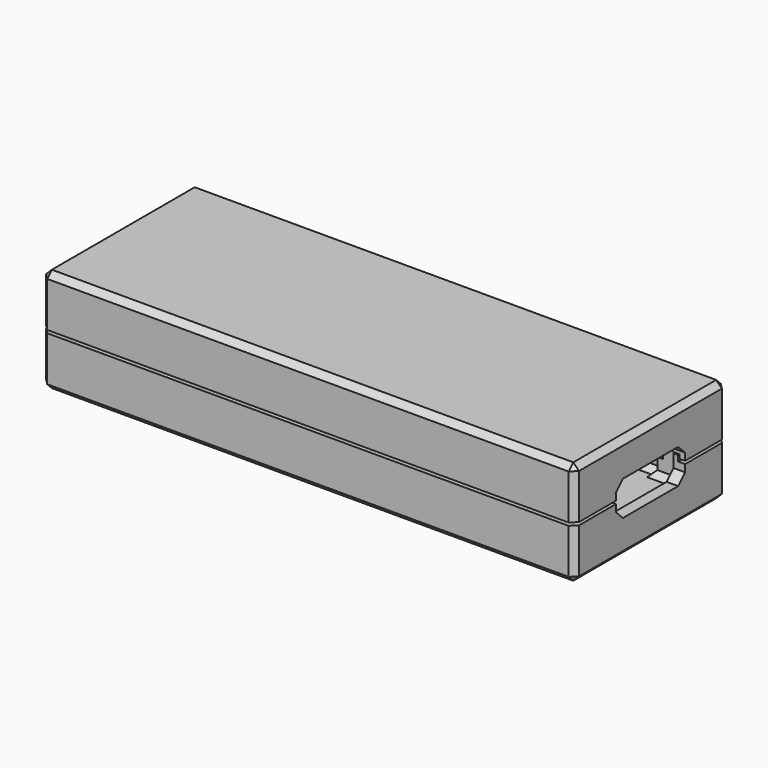
from build123d import *

# Parameters (mm, degrees)
SKETCH_W        = 92.52
SKETCH_H        = 33
PAD_DEPTH       = 9.8
POCKET_DEPTH    = 4.8
SKETCH003_W     = 93.12
SKETCH003_H     = 33.6
SKETCH003_W_2   = 90.12
SKETCH003_H_2   = 30.6
POCKET001_DEPTH = 1
POCKET002_DEPTH = 3
CHAMFER002_SIZE = 1
SKETCH012_W     = 10
SKETCH012_H     = 1.6
PAD002_DEPTH    = 0.5
CHAMFER003_SIZE = 0.499
SKETCH013_W     = 10
SKETCH013_H     = 1.6
PAD003_DEPTH    = 0.5
CHAMFER004_SIZE = 0.499
CHAMFER007_SIZE = 1
POCKET009_DEPTH = 92.521
SKETCH005_W     = 92.52
SKETCH005_H     = 33
PAD001_DEPTH    = 12
SKETCH006_W     = 94.12
SKETCH006_H     = 34.6
SKETCH006_W_2   = 88.12
SKETCH006_H_2   = 28.6
POCKET003_DEPTH = 3.2
SKETCH007_W     = 90.52
SKETCH007_H     = 31
SKETCH007_W_2   = 88.12
SKETCH007_H_2   = 28.6
POCKET004_DEPTH = 3.9
POCKET005_DEPTH = 10
SKETCH009_W     = 6
SKETCH009_H     = 2
POCKET006_DEPTH = 3.9
POCKET007_DEPTH = 10
POCKET008_DEPTH = 10
CHAMFER_SIZE    = 1
CHAMFER001_SIZE = 1
CHAMFER005_SIZE = 1
CHAMFER006_SIZE = 1
POCKET010_DEPTH = 92.521


with BuildPart() as body_bottom:
    # Sketch → Pad (new body)
    with BuildSketch(Plane.XY):
        with Locations((46.26, 16.5)):
            Rectangle(SKETCH_W, SKETCH_H)
    extrude(amount=PAD_DEPTH)

    # Sketch002 (on Face6 of Pad) → Pocket (cut)
    with BuildSketch(Plane.XY.offset(9.8)):
        Polygon((2, 29), (2, 4), (7.8, 4), (7.8, 2), (84.72, 2), (84.72, 4), (90.52, 4), (90.52, 29), (84.72, 29), (84.72, 31), (7.8, 31), (7.8, 29), align=None)
    extrude(amount=-POCKET_DEPTH, mode=Mode.SUBTRACT)

    # Sketch003 (on Face5 of Pocket) → Pocket001 (cut)
    with BuildSketch(Plane.XY.offset(9.8)):
        with Locations((46.26, 16.5)):
            Rectangle(SKETCH003_W, SKETCH003_H)
        with Locations((46.26, 16.5)):
            Rectangle(SKETCH003_W_2, SKETCH003_H_2, mode=Mode.SUBTRACT)
    extrude(amount=-POCKET001_DEPTH, mode=Mode.SUBTRACT)

    # Sketch004 (on Face24 of Pocket001) → Pocket002 (cut)
    with BuildSketch(Plane.XY.offset(5)):
        Polygon((2, 29), (2, 4), (8.8, 4), (8.8, 3), (83.72, 3), (83.72, 4), (90.52, 4), (90.52, 29), (83.72, 29), (83.72, 30), (8.8, 30), (8.8, 29), align=None)
    extrude(amount=-POCKET002_DEPTH, mode=Mode.SUBTRACT)

    # Chamfer002
    chamfer002_edges = [body_bottom.edges().sort_by_distance(p)[0] for p in [
        (46.26, 0, 0),
        (0, 16.5, 0),
        (0, 0, 4.4),
        (0, 33, 4.4),
        (46.26, 33, 0),
        (92.52, 33, 4.4),
        (92.52, 16.5, 0),
        (92.52, 0, 4.4),
    ]]
    chamfer(chamfer002_edges, length=CHAMFER002_SIZE)

    # Sketch012 (on Face29 of Chamfer002) → Pad002 (join)
    with BuildSketch(Plane.XZ.offset(-31)):
        with Locations((15, 7.17)):
            Rectangle(SKETCH012_W, SKETCH012_H)
        with Locations((77.52, 7.17)):
            Rectangle(SKETCH012_W, SKETCH012_H)
    extrude(amount=PAD002_DEPTH)

    # Chamfer003
    chamfer003_edges = [body_bottom.edges().sort_by_distance(p)[0] for p in [
        (15, 30.5, 6.37),
        (15, 30.5, 7.97),
        (77.52, 30.5, 6.37),
        (77.52, 30.5, 7.97),
    ]]
    chamfer(chamfer003_edges, length=CHAMFER003_SIZE)

    # Sketch013 (on Face25 of Chamfer003) → Pad003 (join)
    with BuildSketch(Plane(origin=(0, 2, 0), x_dir=(-1, 0, 0), z_dir=(0, 1, 0))):
        with Locations((-77.52, 7.17)):
            Rectangle(SKETCH013_W, SKETCH013_H)
        with Locations((-15, 7.17)):
            Rectangle(SKETCH013_W, SKETCH013_H)
    extrude(amount=PAD003_DEPTH)

    # Chamfer004
    chamfer004_edges = [body_bottom.edges().sort_by_distance(p)[0] for p in [
        (77.52, 2.5, 6.37),
        (77.52, 2.5, 7.97),
        (15, 2.5, 6.37),
        (15, 2.5, 7.97),
    ]]
    chamfer(chamfer004_edges, length=CHAMFER004_SIZE)

    # Chamfer007
    chamfer007_edges = [body_bottom.edges().sort_by_distance(p)[0] for p in [
        (2, 4, 3.5),
        (2, 4, 7.4),
        (2, 16.5, 2),
        (5.4, 4, 2),
        (8.8, 3.5, 2),
        (46.26, 3, 2),
        (5.4, 29, 2),
        (2, 29, 3.5),
        (2, 29, 7.4),
        (8.8, 29.5, 2),
        (46.26, 30, 2),
        (87.12, 29, 2),
        (90.52, 29, 3.5),
        (90.52, 29, 7.4),
        (83.72, 29.5, 2),
        (87.12, 4, 2),
        (90.52, 16.5, 2),
        (83.72, 3.5, 2),
        (90.52, 4, 3.5),
        (90.52, 4, 7.4),
    ]]
    chamfer(chamfer007_edges, length=CHAMFER007_SIZE)

    # Sketch014 (on Face79 of Chamfer007) → Pocket009 (cut, through all)
    with BuildSketch(Plane(origin=(0, 0, 0), x_dir=(0, -1, 0), z_dir=(-1, 0, 0))):
        Polygon((-22.5, 12.05), (-10.5, 12.05), (-9, 10.55), (-9, 7.55), (-10.5, 6.05), (-22.5, 6.05), (-24, 7.55), (-24, 10.55), align=None)
    extrude(amount=-POCKET009_DEPTH, mode=Mode.SUBTRACT)


with BuildPart() as body_top:
    # Sketch005 → Pad001 (new body)
    with BuildSketch(Plane.XY):
        with Locations((46.26, 16.5)):
            Rectangle(SKETCH005_W, SKETCH005_H)
    extrude(amount=PAD001_DEPTH)

    # Sketch006 (on Face5 of Pad001) → Pocket003 (cut)
    with BuildSketch(Plane(origin=(0, 0, 0), x_dir=(1, 0, 0), z_dir=(0, 0, -1))):
        with Locations((46.26, -16.5)):
            Rectangle(SKETCH006_W, SKETCH006_H)
        with Locations((46.26, -16.5)):
            Rectangle(SKETCH006_W_2, SKETCH006_H_2, mode=Mode.SUBTRACT)
    extrude(amount=-POCKET003_DEPTH, mode=Mode.SUBTRACT)

    # Sketch007 (on Face11 of Pocket003) → Pocket004 (cut)
    with BuildSketch(Plane(origin=(0, 0, 0), x_dir=(1, 0, 0), z_dir=(0, 0, -1))):
        with Locations((46.26, -16.5)):
            Rectangle(SKETCH007_W, SKETCH007_H)
        with Locations((46.26, -16.5)):
            Rectangle(SKETCH007_W_2, SKETCH007_H_2, mode=Mode.SUBTRACT)
    extrude(amount=-POCKET004_DEPTH, mode=Mode.SUBTRACT)

    # Sketch008 (on Face20 of Pocket004) → Pocket005 (cut)
    with BuildSketch(Plane(origin=(0, 0, 0), x_dir=(1, 0, 0), z_dir=(0, 0, -1))):
        Polygon((2.2, -4), (2.2, -29), (9, -29), (9, -30.8), (10, -30.8), (10, -29), (20, -29), (20, -30.8), (21, -30.8), (21, -30), (71.52, -30), (71.52, -30.8), (72.52, -30.8), (72.52, -29), (82.52, -29), (82.52, -30.8), (83.52, -30.8), (83.52, -29), (90.32, -29), (90.32, -4), (83.52, -4), (83.52, -2.2), (82.52, -2.2), (82.52, -4), (72.52, -4), (72.52, -2.2), (71.52, -2.2), (71.52, -3), (21, -3), (21, -2.2), (20, -2.2), (20, -4), (10, -4), (10, -2.2), (9, -2.2), (9, -4), align=None)
    extrude(amount=-POCKET005_DEPTH, mode=Mode.SUBTRACT)

    # Sketch009 (on Face81 of Pocket005) → Pocket006 (cut)
    with BuildSketch(Plane(origin=(0, 0, 0), x_dir=(1, 0, 0), z_dir=(0, 0, -1))):
        with Locations((87.52, -3)):
            Rectangle(SKETCH009_W, SKETCH009_H)
        with Locations((87.52, -30)):
            Rectangle(SKETCH009_W, SKETCH009_H)
        with Locations((5, -30)):
            Rectangle(SKETCH009_W, SKETCH009_H)
        with Locations((5, -3)):
            Rectangle(SKETCH009_W, SKETCH009_H)
    extrude(amount=-POCKET006_DEPTH, mode=Mode.SUBTRACT)

    # Sketch010 (on Face48 of Pocket006) → Pocket007 (cut)
    with BuildSketch(Plane.YZ.offset(82.52)):
        Polygon((30.8, 0), (30.8, 0.4), (30.45, 0.75), (30.45, 1.391421), (30.8, 1.741421), (33, 1.741421), (33, 0), align=None)
        Polygon((2.2, 1.741421), (2.55, 1.391421), (2.55, 0.75), (2.2, 0.4), (2.2, 0), (0, 0), (0, 1.741421), align=None)
    extrude(amount=-POCKET007_DEPTH, mode=Mode.SUBTRACT)

    # Sketch011 (on Face65 of Pocket007) → Pocket008 (cut)
    with BuildSketch(Plane.YZ.offset(20)):
        Polygon((30.8, 0), (30.8, 0.4), (30.45, 0.75), (30.45, 1.391421), (30.8, 1.741421), (33, 1.741421), (33, 0), align=None)
        Polygon((2.2, 1.741421), (2.55, 1.391421), (2.55, 0.75), (2.2, 0.4), (2.2, 0), (0, 0), (0, 1.741421), align=None)
    extrude(amount=-POCKET008_DEPTH, mode=Mode.SUBTRACT)

    # Chamfer
    chamfer_edges = [body_top.edges().sort_by_distance(p)[0] for p in [
        (15, 29, 0),
        (77.52, 29, 0),
        (77.52, 4, 0),
        (15, 4, 0),
    ]]
    chamfer(chamfer_edges, length=CHAMFER_SIZE)

    # Chamfer001
    chamfer001_edges = [body_top.edges().sort_by_distance(p)[0] for p in [
        (92.52, 33, 7.6),
        (92.52, 16.5, 12),
        (92.52, 0, 7.6),
        (46.26, 33, 12),
        (0, 33, 7.6),
        (0, 16.5, 12),
        (46.26, 0, 12),
        (0, 0, 7.6),
    ]]
    chamfer(chamfer001_edges, length=CHAMFER001_SIZE)

    # Chamfer005
    chamfer005_edges = [body_top.edges().sort_by_distance(p)[0] for p in [
        (15, 29, 10),
        (77.52, 29, 10),
        (77.52, 4, 10),
        (15, 4, 10),
    ]]
    chamfer(chamfer005_edges, length=CHAMFER005_SIZE)

    # Chamfer006
    chamfer006_edges = [body_top.edges().sort_by_distance(p)[0] for p in [
        (5.6, 29, 10),
        (46.26, 30, 10),
        (86.92, 29, 10),
        (90.32, 16.5, 10),
        (86.92, 4, 10),
        (46.26, 3, 10),
        (5.6, 4, 10),
        (2.2, 16.5, 10),
        (2.2, 4, 6.95),
        (90.32, 4, 6.95),
        (90.32, 29, 6.95),
        (2.2, 29, 6.95),
    ]]
    chamfer(chamfer006_edges, length=CHAMFER006_SIZE)

    # Sketch015 (on Face126 of Chamfer006) → Pocket010 (cut, through all)
    with BuildSketch(Plane(origin=(0, 0, 0), x_dir=(0, -1, 0), z_dir=(-1, 0, 0))):
        Polygon((-22.5, 5.95), (-10.5, 5.95), (-9, 4.45), (-9, 1.45), (-10.5, -0.05), (-22.5, -0.05), (-24, 1.45), (-24, 4.45), align=None)
    extrude(amount=-POCKET010_DEPTH, mode=Mode.SUBTRACT)


with BuildPart() as body_top_1:
    # Body001 placement: moved
    add(body_top.part.moved(Location((0, 0, 6.1))))


solid = Compound([body_bottom.part, body_top_1.part])
